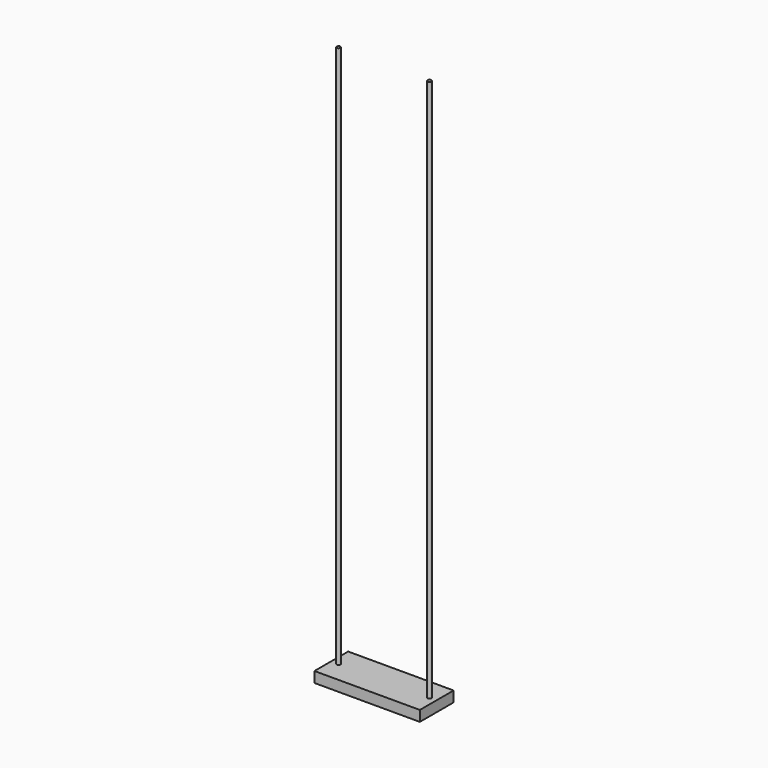
from build123d import *

# Parameters (mm, degrees)
F0_W     = 381
F0_H     = 152.4
F1_DEPTH = 38.1
F2_R     = 6.726228
F4_DEPTH = 2000
F3_R     = 7.08762
F5_DEPTH = 2000


with BuildPart() as f1:
    # F0 (on Top) → F1 (new body)
    with BuildSketch(Plane.XY):
        Rectangle(F0_W, F0_H)
    extrude(amount=F1_DEPTH)

    # F2 (on Top) → F4 (join)
    with BuildSketch(Plane.XY):
        with Locations((-164.244667, 0)):
            Circle(F2_R)
    extrude(amount=F4_DEPTH)

    # F3 (on Top) → F5 (join)
    with BuildSketch(Plane.XY):
        with Locations((164.532065, 0)):
            Circle(F3_R)
    extrude(amount=F5_DEPTH)


solid = f1.part
